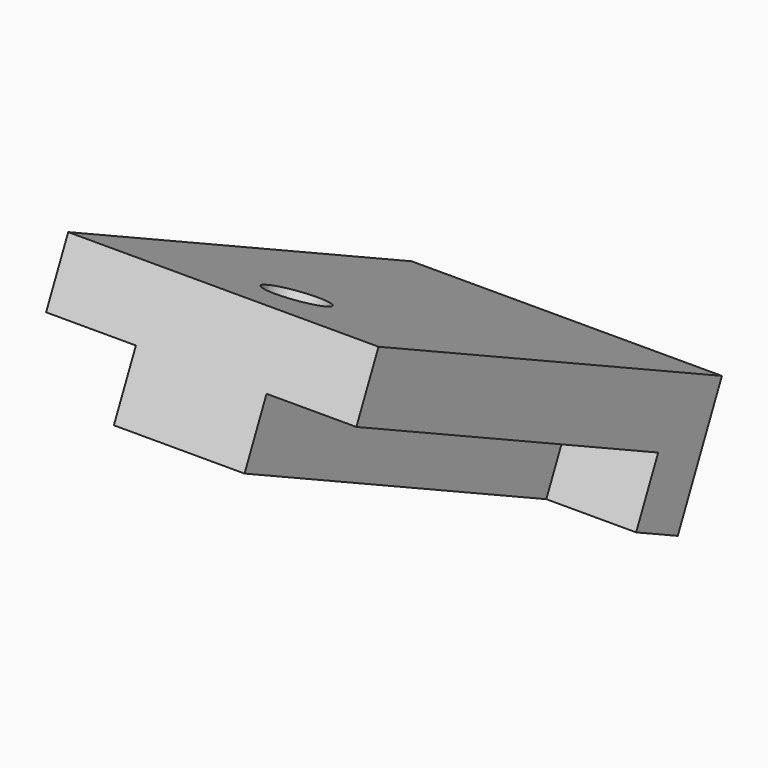
from build123d import *

# Parameters (mm, degrees)
CYLINDER012_R               = 1.8
CYLINDER012_DEPTH           = 15
CYLINDER012_PLACEMENT_ANGLE = 25
BOX027_W                    = 140
BOX027_H                    = 162
BOX027_DEPTH                = 4
BOX027_ROLL_ANGLE           = 25.000043
BOX027_PLACEMENT_ANGLE      = 180
BOX026_W                    = 140
BOX026_H                    = 162
BOX026_DEPTH                = 4
BOX026_ROLL_ANGLE           = 25.000043
BOX026_PLACEMENT_ANGLE      = 180
BOX025_W                    = 19
BOX025_H                    = 29
BOX025_DEPTH                = 8
BOX025_PLACEMENT_ANGLE      = 25


with BuildPart() as m2bolt:
    # Cylinder012 → Cylinder012 (new body)
    with BuildSketch(Plane.XY):
        Circle(CYLINDER012_R)
    extrude(amount=CYLINDER012_DEPTH)


with BuildPart() as m2bolt_1:
    # Cylinder012 placement: moved
    add(m2bolt.part.moved(Location((177.5, 263.58, 9.88971))).rotate(Axis((177.5, 263.58, 9.88971), (-1, 0, 0)), CYLINDER012_PLACEMENT_ANGLE))


with BuildPart() as solar_panel008:
    # Box027 → Box027 (new body)
    with BuildSketch(Plane.XY):
        with Locations((70, 81)):
            Rectangle(BOX027_W, BOX027_H)
    extrude(amount=BOX027_DEPTH)


with BuildPart() as solar_panel008_1:
    # Box027 roll: moved
    add(solar_panel008.part.rotate(Axis((0, 0, 0), (1, 0, 0)), BOX027_ROLL_ANGLE))


with BuildPart() as solar_panel008_2:
    # Box027 placement: moved
    add(solar_panel008_1.part.moved(Location((173.5, 284, 8))).rotate(Axis((173.5, 284, 8), (0, 0, 1)), BOX027_PLACEMENT_ANGLE))


with BuildPart() as obj1:
    # Box026 → Box026 (new body)
    with BuildSketch(Plane.XY):
        with Locations((70, 81)):
            Rectangle(BOX026_W, BOX026_H)
    extrude(amount=BOX026_DEPTH)


with BuildPart() as obj1_1:
    # Box026 roll: moved
    add(obj1.part.rotate(Axis((0, 0, 0), (1, 0, 0)), BOX026_ROLL_ANGLE))


with BuildPart() as obj1_2:
    # Box026 placement: moved
    add(obj1_1.part.moved(Location((321.5, 284, 8))).rotate(Axis((321.5, 284, 8), (0, 0, 1)), BOX026_PLACEMENT_ANGLE))

    # Fusion005: union solar Panel008
    add(solar_panel008_2.part)


with BuildPart() as topmid:
    # Box025 → Box025 (new body)
    with BuildSketch(Plane.XY):
        with Locations((9.5, 14.5)):
            Rectangle(BOX025_W, BOX025_H)
    extrude(amount=BOX025_DEPTH)


with BuildPart() as topmid_1:
    # Box025 placement: moved
    add(topmid.part.moved(Location((168, 260.906, 18.78))).rotate(Axis((168, 260.906, 18.78), (-1, 0, 0)), BOX025_PLACEMENT_ANGLE))

    # Cut013: cut obj1
    add(obj1_2.part, mode=Mode.SUBTRACT)

    # Cut014: cut m2Bolt
    add(m2bolt_1.part, mode=Mode.SUBTRACT)


solid = topmid_1.part
